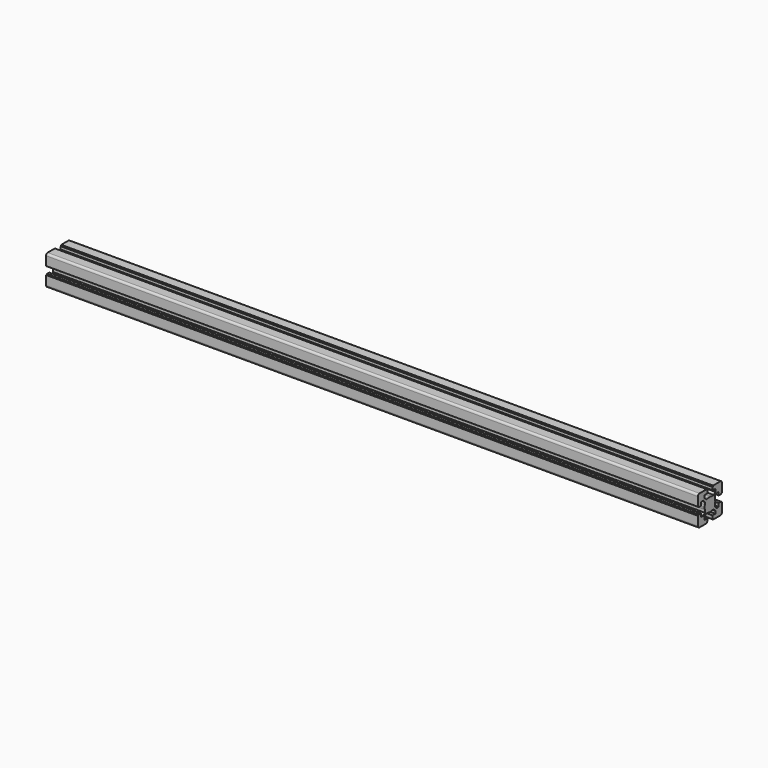
from build123d import *

# Parameters (mm, degrees)
F1_DEPTH = 977.9


with BuildPart() as f1:
    # F0 (on Right) → F1 (new body)
    with BuildSketch(Plane.YZ):
        with BuildLine():
            Line((-20.088481, -9.788837), (-20.088481, -10.288837))
            Line((-20.088481, -10.288837), (-21.28859, -10.288837))
            ThreePointArc((-21.28859, -10.288837), (-21.500722, -10.376705), (-21.58859, -10.588837))
            Line((-21.58859, -10.588837), (-21.58859, -23.988949))
            ThreePointArc((-21.58859, -23.988949), (-20.70991, -26.11027), (-18.58859, -26.988949))
            Line((-18.58859, -26.988949), (-5.188544, -26.988949))
            ThreePointArc((-5.188544, -26.988949), (-4.976411, -26.901081), (-4.888544, -26.688949))
            Line((-4.888544, -26.688949), (-4.888544, -25.488841))
            Line((-4.888544, -25.488841), (-4.388544, -25.488841))
            ThreePointArc((-4.388544, -25.488841), (-4.176411, -25.400973), (-4.088544, -25.188841))
            Line((-4.088544, -25.188841), (-4.088544, -21.288841))
            ThreePointArc((-4.088544, -21.288841), (-4.176411, -21.076709), (-4.388544, -20.988841))
            Line((-4.388544, -20.988841), (-9.138663, -20.988841))
            Line((-9.138663, -20.988841), (-9.138663, -16.881665))
            Line((-9.138663, -16.881665), (-6.245729, -13.988731))
            Line((-6.245729, -13.988731), (-2.211433, -13.988731))
            ThreePointArc((-2.211433, -13.988731), (-0.669869, -14.363044), (0.91149, -14.48887))
            Line((0.91149, -14.48887), (0.91149, -4.48887))
            Line((0.91149, -4.48887), (-9.08851, -4.48887))
            ThreePointArc((-9.08851, -4.48887), (-8.962684, -6.070229), (-8.588371, -7.611793))
            Line((-8.588371, -7.611793), (-8.588371, -11.646022))
            Line((-8.588371, -11.646022), (-11.481305, -14.538956))
            Line((-11.481305, -14.538956), (-15.588481, -14.538956))
            Line((-15.588481, -14.538956), (-15.588481, -9.788837))
            ThreePointArc((-15.588481, -9.788837), (-15.676349, -9.576705), (-15.888481, -9.488837))
            Line((-15.888481, -9.488837), (-19.788481, -9.488837))
            ThreePointArc((-19.788481, -9.488837), (-20.000613, -9.576705), (-20.088481, -9.788837))
        make_face()
        with BuildLine():
            ThreePointArc((-8.588371, -1.365947), (-8.962684, -2.907511), (-9.08851, -4.48887))
            Line((-9.08851, -4.48887), (0.91149, -4.48887))
            Line((0.91149, -4.48887), (0.91149, 5.51113))
            ThreePointArc((0.91149, 5.51113), (-0.669869, 5.385303), (-2.211433, 5.010991))
            Line((-2.211433, 5.010991), (-6.245729, 5.010991))
            Line((-6.245729, 5.010991), (-9.138663, 7.903925))
            Line((-9.138663, 7.903925), (-9.138663, 12.011101))
            Line((-9.138663, 12.011101), (-4.388544, 12.011101))
            ThreePointArc((-4.388544, 12.011101), (-4.176411, 12.098969), (-4.088544, 12.311101))
            Line((-4.088544, 12.311101), (-4.088544, 16.211101))
            ThreePointArc((-4.088544, 16.211101), (-4.176411, 16.423233), (-4.388544, 16.511101))
            Line((-4.388544, 16.511101), (-4.888544, 16.511101))
            Line((-4.888544, 16.511101), (-4.888544, 17.711209))
            ThreePointArc((-4.888544, 17.711209), (-4.976411, 17.923341), (-5.188544, 18.011209))
            Line((-5.188544, 18.011209), (-18.58859, 18.011209))
            ThreePointArc((-18.58859, 18.011209), (-20.70991, 17.13253), (-21.58859, 15.011209))
            Line((-21.58859, 15.011209), (-21.58859, 1.611097))
            ThreePointArc((-21.58859, 1.611097), (-21.500722, 1.398965), (-21.28859, 1.311097))
            Line((-21.28859, 1.311097), (-20.088481, 1.311097))
            Line((-20.088481, 1.311097), (-20.088481, 0.811097))
            ThreePointArc((-20.088481, 0.811097), (-20.000613, 0.598965), (-19.788481, 0.511097))
            Line((-19.788481, 0.511097), (-15.888481, 0.511097))
            ThreePointArc((-15.888481, 0.511097), (-15.676349, 0.598965), (-15.588481, 0.811097))
            Line((-15.588481, 0.811097), (-15.588481, 5.561216))
            Line((-15.588481, 5.561216), (-11.481305, 5.561216))
            Line((-11.481305, 5.561216), (-8.588371, 2.668282))
            Line((-8.588371, 2.668282), (-8.588371, -1.365947))
        make_face()
        with BuildLine():
            Line((0.91149, 5.51113), (0.91149, -4.48887))
            Line((0.91149, -4.48887), (10.91149, -4.48887))
            ThreePointArc((10.91149, -4.48887), (10.785663, -2.907511), (10.41135, -1.365947))
            Line((10.41135, -1.365947), (10.41135, 2.668282))
            Line((10.41135, 2.668282), (13.304285, 5.561216))
            Line((13.304285, 5.561216), (14.016842, 5.561216))
            Line((14.016842, 5.561216), (17.41146, 5.561216))
            Line((17.41146, 5.561216), (17.41146, 0.811097))
            ThreePointArc((17.41146, 0.811097), (17.499328, 0.598965), (17.71146, 0.511097))
            Line((17.71146, 0.511097), (21.61146, 0.511097))
            ThreePointArc((21.61146, 0.511097), (21.823593, 0.598965), (21.91146, 0.811097))
            Line((21.91146, 0.811097), (21.91146, 1.311097))
            Line((21.91146, 1.311097), (23.111569, 1.311097))
            ThreePointArc((23.111569, 1.311097), (23.323701, 1.398965), (23.411569, 1.611097))
            Line((23.411569, 1.611097), (23.411569, 15.011209))
            ThreePointArc((23.411569, 15.011209), (22.532889, 17.13253), (20.411569, 18.011209))
            Line((20.411569, 18.011209), (7.011523, 18.011209))
            ThreePointArc((7.011523, 18.011209), (6.799391, 17.923341), (6.711523, 17.711209))
            Line((6.711523, 17.711209), (6.711523, 16.511101))
            Line((6.711523, 16.511101), (6.211523, 16.511101))
            ThreePointArc((6.211523, 16.511101), (5.999391, 16.423233), (5.911523, 16.211101))
            Line((5.911523, 16.211101), (5.911523, 12.311101))
            ThreePointArc((5.911523, 12.311101), (5.999391, 12.098969), (6.211523, 12.011101))
            Line((6.211523, 12.011101), (10.961642, 12.011101))
            Line((10.961642, 12.011101), (10.961642, 7.903925))
            Line((10.961642, 7.903925), (8.068708, 5.010991))
            Line((8.068708, 5.010991), (4.034413, 5.010991))
            ThreePointArc((4.034413, 5.010991), (2.492849, 5.385303), (0.91149, 5.51113))
        make_face()
        with BuildLine():
            Line((10.91149, -4.48887), (0.91149, -4.48887))
            Line((0.91149, -4.48887), (0.91149, -14.48887))
            ThreePointArc((0.91149, -14.48887), (2.492849, -14.363044), (4.034413, -13.988731))
            Line((4.034413, -13.988731), (8.068708, -13.988731))
            Line((8.068708, -13.988731), (10.961642, -16.881665))
            Line((10.961642, -16.881665), (10.961642, -20.988841))
            Line((10.961642, -20.988841), (6.211523, -20.988841))
            ThreePointArc((6.211523, -20.988841), (5.999391, -21.076709), (5.911523, -21.288841))
            Line((5.911523, -21.288841), (5.911523, -25.188841))
            ThreePointArc((5.911523, -25.188841), (5.999391, -25.400973), (6.211523, -25.488841))
            Line((6.211523, -25.488841), (6.711523, -25.488841))
            Line((6.711523, -25.488841), (6.711523, -26.688949))
            ThreePointArc((6.711523, -26.688949), (6.799391, -26.901081), (7.011523, -26.988949))
            Line((7.011523, -26.988949), (20.411569, -26.988949))
            ThreePointArc((20.411569, -26.988949), (22.532889, -26.11027), (23.411569, -23.988949))
            Line((23.411569, -23.988949), (23.411569, -10.588837))
            ThreePointArc((23.411569, -10.588837), (23.323701, -10.376705), (23.111569, -10.288837))
            Line((23.111569, -10.288837), (21.91146, -10.288837))
            Line((21.91146, -10.288837), (21.91146, -9.788837))
            ThreePointArc((21.91146, -9.788837), (21.823593, -9.576705), (21.61146, -9.488837))
            Line((21.61146, -9.488837), (17.71146, -9.488837))
            ThreePointArc((17.71146, -9.488837), (17.499328, -9.576705), (17.41146, -9.788837))
            Line((17.41146, -9.788837), (17.41146, -14.538956))
            Line((17.41146, -14.538956), (13.304285, -14.538956))
            Line((13.304285, -14.538956), (10.41135, -11.646022))
            Line((10.41135, -11.646022), (10.41135, -7.611793))
            ThreePointArc((10.41135, -7.611793), (10.785663, -6.070229), (10.91149, -4.48887))
        make_face()
    extrude(amount=F1_DEPTH)


solid = f1.part
